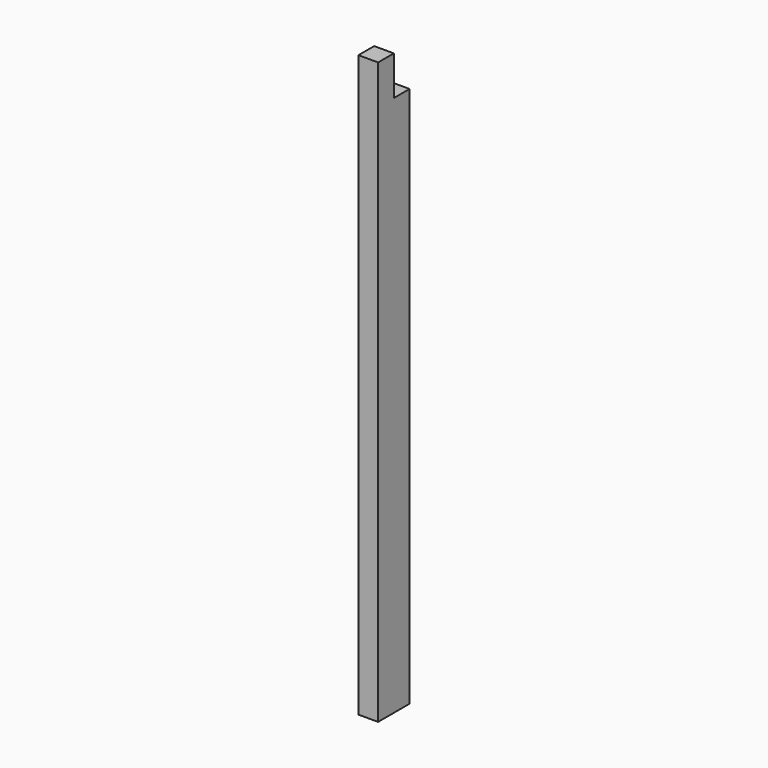
from build123d import *

# Parameters (mm, degrees)
F0_W     = 50.8
F0_H     = 101.6
F1_DEPTH = 1500
F2_W     = 50.8
F2_H     = 101.6
F3_DEPTH = 25.4


with BuildPart() as f1:
    # F0 (on Top) → F1 (new body)
    with BuildSketch(Plane.XY):
        Rectangle(F0_W, F0_H)
    extrude(amount=F1_DEPTH)

    # F2 (on Right) → F3 (cut, symmetric)
    with BuildSketch(Plane.YZ):
        with Locations((25.4, 1449.2)):
            Rectangle(F2_W, F2_H)
    extrude(amount=F3_DEPTH, both=True, mode=Mode.SUBTRACT)


solid = f1.part
